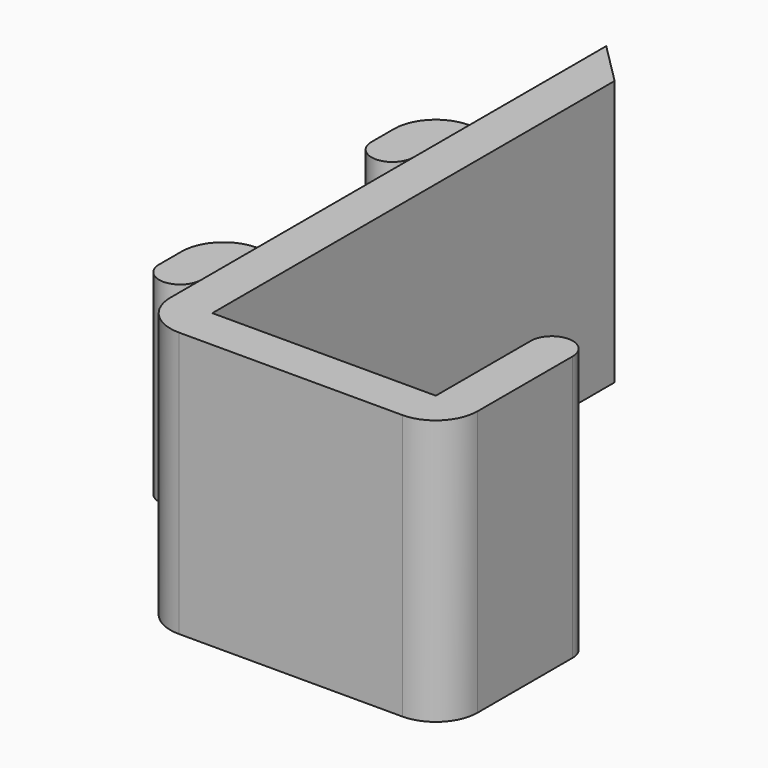
from build123d import *

# Parameters (mm, degrees)
F0_W          = 16
F0_H          = 3
F0_W_2        = 3
F0_H_2        = 8.5
F1_DEPTH      = 9.5
F1_DEPTH_BACK = 9.5
F0_H_3        = 2
F2_DEPTH      = 7
F2_DEPTH_BACK = 7


with BuildPart() as f1:
    # F0 (on Top) → F1 (new body, two sides)
    with BuildSketch(Plane.XY) as f1_sk:
        Polygon((1.5, 18), (-1.5, 21), (-1.5, 12.5), (-1.5, 9.5), (-1.5, -6.5), (-1.5, -9.5), (-1.5, -18), (1.5, -18), align=None)
        with BuildLine():
            Line((1.5, -21), (1.5, -18))
            Line((1.5, -18), (-1.5, -18))
            ThreePointArc((-1.5, -18), (-0.6213203436, -20.1213203436), (1.5, -21))
        make_face()
        with Locations((9.5, -19.5)):
            Rectangle(F0_W, F0_H)
        with Locations((19, -13.75)):
            Rectangle(F0_W_2, F0_H_2)
        with BuildLine():
            Line((20.5, -18), (17.5, -18))
            Line((17.5, -18), (17.5, -21))
            ThreePointArc((17.5, -21), (19.6213203436, -20.1213203436), (20.5, -18))
        make_face()
        with BuildLine():
            ThreePointArc((19, -8), (17.9393398282, -8.4393398282), (17.5, -9.5))
            Line((17.5, -9.5), (20.5, -9.5))
            ThreePointArc((20.5, -9.5), (20.0606601718, -8.4393398282), (19, -8))
        make_face()
    extrude(amount=F1_DEPTH)
    extrude(f1_sk.sketch, amount=-F1_DEPTH_BACK)

    # F0 (on Top) → F2 (join, two sides)
    with BuildSketch(Plane.XY) as f2_sk:
        with Locations((-3, 11)):
            Rectangle(F0_W_2, F0_H)
        with BuildLine():
            Line((-4.5, 9.5), (-4.5, 12.5))
            ThreePointArc((-4.5, 12.5), (-6.6213203436, 11.6213203436), (-7.5, 9.5))
            Line((-7.5, 9.5), (-4.5, 9.5))
        make_face()
        with Locations((-6, 8.5)):
            Rectangle(F0_W_2, F0_H_3)
        with BuildLine():
            ThreePointArc((-7.5, 7.5), (-6, 6), (-4.5, 7.5))
            Line((-4.5, 7.5), (-7.5, 7.5))
        make_face()
        with BuildLine():
            ThreePointArc((-7.5, -11.5), (-6, -13), (-4.5, -11.5))
            Line((-4.5, -11.5), (-7.5, -11.5))
        make_face()
        with Locations((-6, -10.5)):
            Rectangle(F0_W_2, F0_H_3)
        with BuildLine():
            Line((-4.5, -9.5), (-4.5, -6.5))
            ThreePointArc((-4.5, -6.5), (-6.6213203436, -7.3786796564), (-7.5, -9.5))
            Line((-7.5, -9.5), (-4.5, -9.5))
        make_face()
        with Locations((-3, -8)):
            Rectangle(F0_W_2, F0_H)
    extrude(amount=F2_DEPTH)
    extrude(f2_sk.sketch, amount=-F2_DEPTH_BACK)


solid = f1.part
